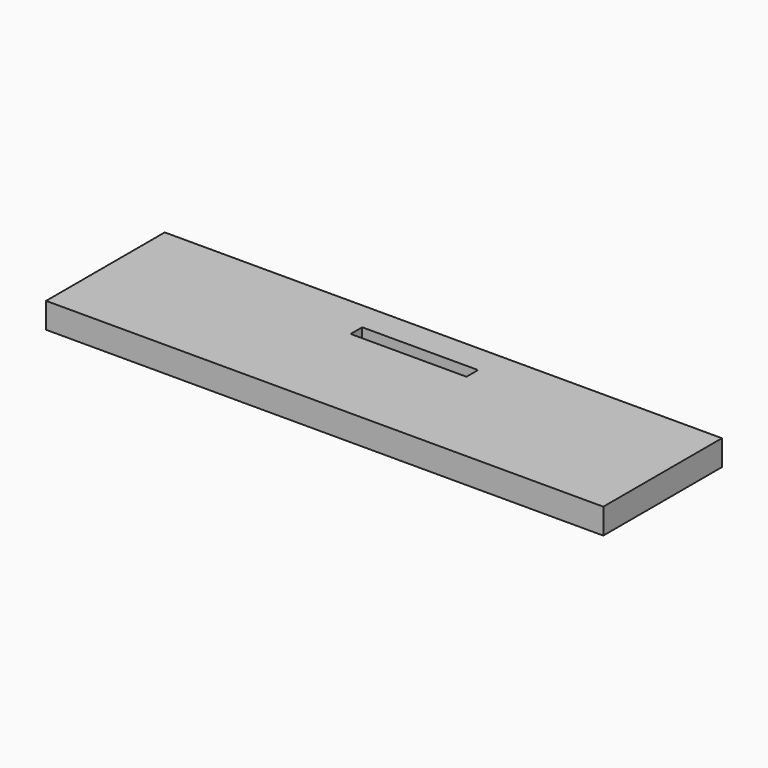
from build123d import *

# Parameters (mm, degrees)
F0_W     = 61.087
F0_H     = 16.256
F1_DEPTH = 2.794
F2_W     = 12.7
F2_H     = 1.5875
F3_DEPTH = 2.794


with BuildPart() as f1:
    # F0 (on Top) → F1 (new body)
    with BuildSketch(Plane.XY):
        Rectangle(F0_W, F0_H)
    extrude(amount=F1_DEPTH)

    # F2 (on face) → F3 (cut, through all)
    with BuildSketch(Plane(origin=(0, 0, 0), x_dir=(1, 0, 0), z_dir=(0, 0, -1))):
        with Locations((0, -4.15925)):
            Rectangle(F2_W, F2_H)
    extrude(amount=-F3_DEPTH, mode=Mode.SUBTRACT)


solid = f1.part
